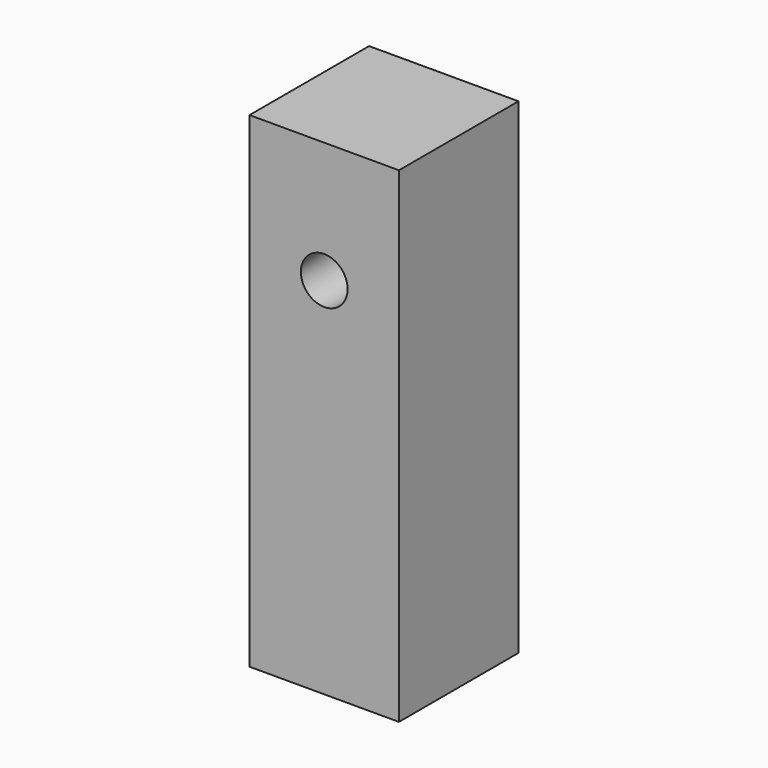
from build123d import *

# Parameters (mm, degrees)
F0_W     = 80
F0_H     = 80
F1_DEPTH = 260
F3_D     = 25
F3_DEPTH = 60
F3_TIP   = 7.5107577378
F5_D     = 5
F5_DEPTH = 15
F5_TIP   = 1.5021515476


with BuildPart() as f1:
    # F0 (on Top) → F1 (new body)
    with BuildSketch(Plane.XY):
        with Locations((40, 40)):
            Rectangle(F0_W, F0_H)
    extrude(amount=F1_DEPTH)

    # F3
    with Locations(Plane.XZ):
        with Locations((40.004914752, 195.0411053359)):
            Hole(F3_D / 2, depth=F3_DEPTH)
            with Locations((0, 0, -(F3_DEPTH + F3_TIP / 2))):  # 118° drill point
                Cone(0, F3_D / 2, F3_TIP, mode=Mode.SUBTRACT)

    # F5
    with Locations(Plane(origin=(0, 0, 0), x_dir=(1, 0, 0), z_dir=(0, 0, -1))):
        with Locations((39.3849909306, -20), (39.3849909306, -60)):
            Hole(F5_D / 2, depth=F5_DEPTH)
            with Locations((0, 0, -(F5_DEPTH + F5_TIP / 2))):  # 118° drill point
                Cone(0, F5_D / 2, F5_TIP, mode=Mode.SUBTRACT)


solid = f1.part
